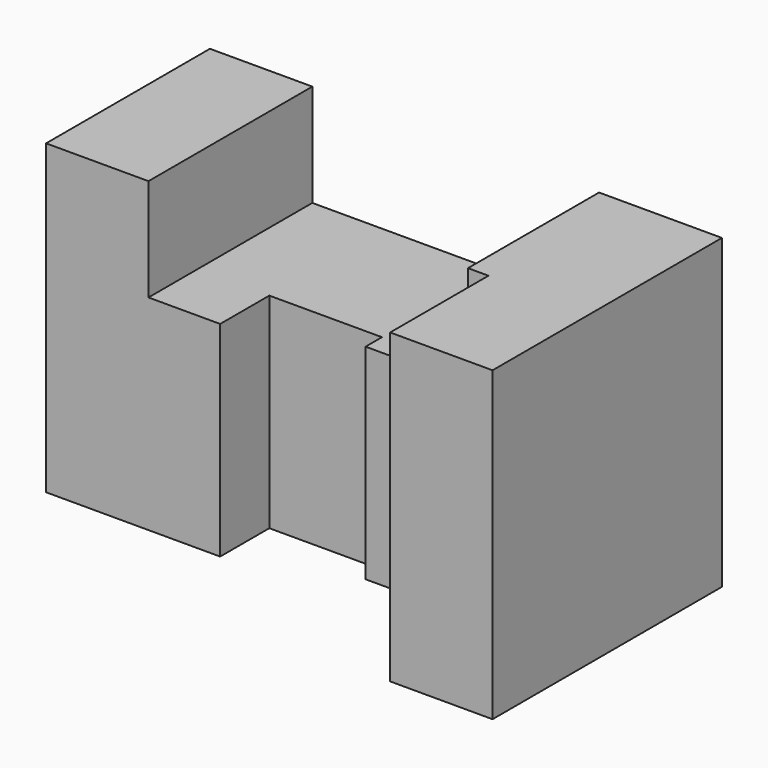
from build123d import *

# Parameters (mm, degrees)
F1_DEPTH = 70
F3_DEPTH = 75.001


with BuildPart() as f1:
    # F0 (on Front) → F1 (new body)
    with BuildSketch(Plane.XZ):
        Polygon((0, 75), (0, 0), (125, 0), (125, 75), (95, 75), (95, 50), (25, 50), (25, 75), align=None)
    extrude(amount=F1_DEPTH)

    # F2 (on Top) → F3 (cut, through all)
    with BuildSketch(Plane.XY):
        Polygon((0, -70), (100, -70), (100, -40), (70, -40), (70, -35), (42.5, -35), (42.5, -50), (0, -50), align=None)
    extrude(amount=F3_DEPTH, mode=Mode.SUBTRACT)


solid = f1.part
